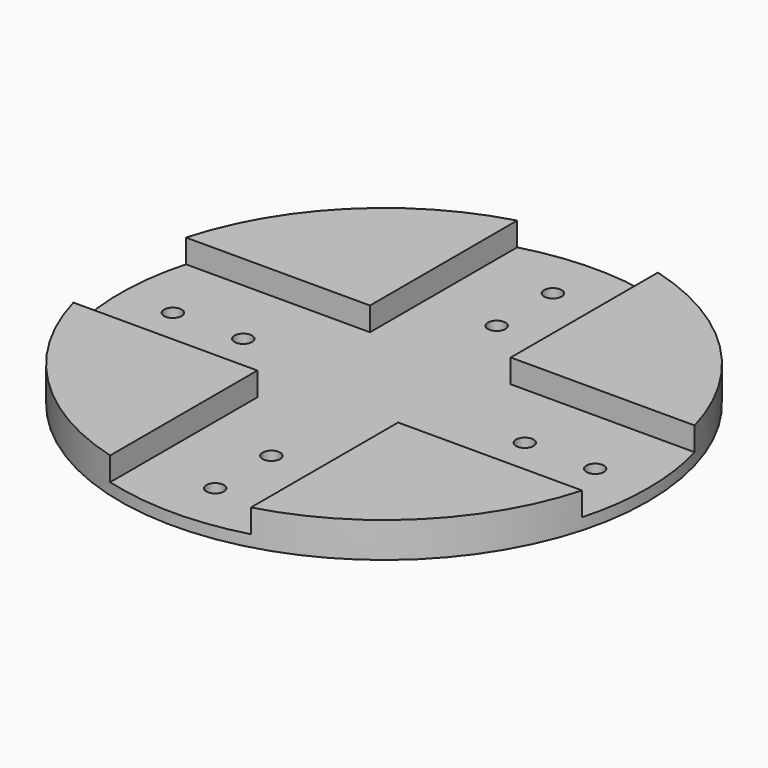
from build123d import *

# Parameters (mm, degrees)
F0_R      = 47.625
F1_DEPTH  = 6.35
F3_DEPTH  = 4.2545
F5_W      = 19.05
F5_H      = 6.35
F6_DEPTH  = 6.35
F8_DEPTH  = 19.05
F9_R      = 3.175
F10_DEPTH = 19.05
F4_R      = 1.5875
F11_DEPTH = 25.4


with BuildPart() as f1:
    # F0 (on Top) → F1 (new body)
    with BuildSketch(Plane.XY):
        Circle(F0_R)
    extrude(amount=F1_DEPTH)

    # F2 (on face) → F3 (cut)
    with BuildSketch(Plane.XY.offset(6.35)):
        with BuildLine():
            ThreePointArc((12.7, 45.900442536), (0, 47.625), (-12.7, 45.900442536))
            Line((-12.7, 45.900442536), (-12.7, 12.7))
            Line((-12.7, 12.7), (-45.900442536, 12.7))
            ThreePointArc((-45.900442536, 12.7), (-47.625, 0), (-45.900442536, -12.7))
            Line((-45.900442536, -12.7), (-12.7, -12.7))
            Line((-12.7, -12.7), (-12.7, -45.900442536))
            ThreePointArc((-12.7, -45.900442536), (0, -47.625), (12.7, -45.900442536))
            Line((12.7, -45.900442536), (12.7, -12.7))
            Line((12.7, -12.7), (45.900442536, -12.7))
            ThreePointArc((45.900442536, -12.7), (47.1918912567, -6.4082778195), (47.625, 0))
            ThreePointArc((47.625, 0), (47.1918912567, 6.4082778195), (45.900442536, 12.7))
            Line((45.900442536, 12.7), (12.7, 12.7))
            Line((12.7, 12.7), (12.7, 45.900442536))
        make_face()
    extrude(amount=-F3_DEPTH, mode=Mode.SUBTRACT)

    # F5 (on face) → F6 (join)
    with BuildSketch(Plane(origin=(0, 0, 0), x_dir=(1, 0, 0), z_dir=(0, 0, -1))):
        with Locations((0, 0.1347091747)):
            Rectangle(F5_W, F5_H)
    extrude(amount=F6_DEPTH)

    # F7 (on face) → F8 (join)
    with BuildSketch(Plane(origin=(-9.525, 0, 0), x_dir=(0, -1, 0), z_dir=(-1, 0, 0))):
        with BuildLine():
            ThreePointArc((-3.0402908253, -1.0568323894), (-3.2416549215, -12.0919341109), (6.35, -6.6316984594))
            ThreePointArc((6.35, -6.6316984594), (5.5380119745, -3.5247830485), (3.3097091747, -1.2124434203))
            Line((3.3097091747, -1.2124434203), (3.3097091747, -6.35))
            Line((3.3097091747, -6.35), (-3.0402908253, -6.35))
            Line((-3.0402908253, -6.35), (-3.0402908253, -1.0568323894))
        make_face()
    extrude(amount=-F8_DEPTH)

    # F9 (on face) → F10 (cut)
    with BuildSketch(Plane.YZ.offset(9.525)):
        with Locations((0, -6.6316984594)):
            Circle(F9_R)
    extrude(amount=-F10_DEPTH, mode=Mode.SUBTRACT)

    # F4 (on face) → F11 (cut)
    with BuildSketch(Plane.XY.offset(2.0955)):
        with Locations((-38.1, 0)):
            Circle(F4_R)
        with Locations((-25.4, 0)):
            Circle(F4_R)
        with Locations((0, -25.4)):
            Circle(F4_R)
        with Locations((0, -38.1)):
            Circle(F4_R)
        with Locations((25.4, 0)):
            Circle(F4_R)
        with Locations((38.1, 0)):
            Circle(F4_R)
        with Locations((0, 25.4)):
            Circle(F4_R)
        with Locations((0, 38.1)):
            Circle(F4_R)
    extrude(amount=-F11_DEPTH, mode=Mode.SUBTRACT)


solid = f1.part
